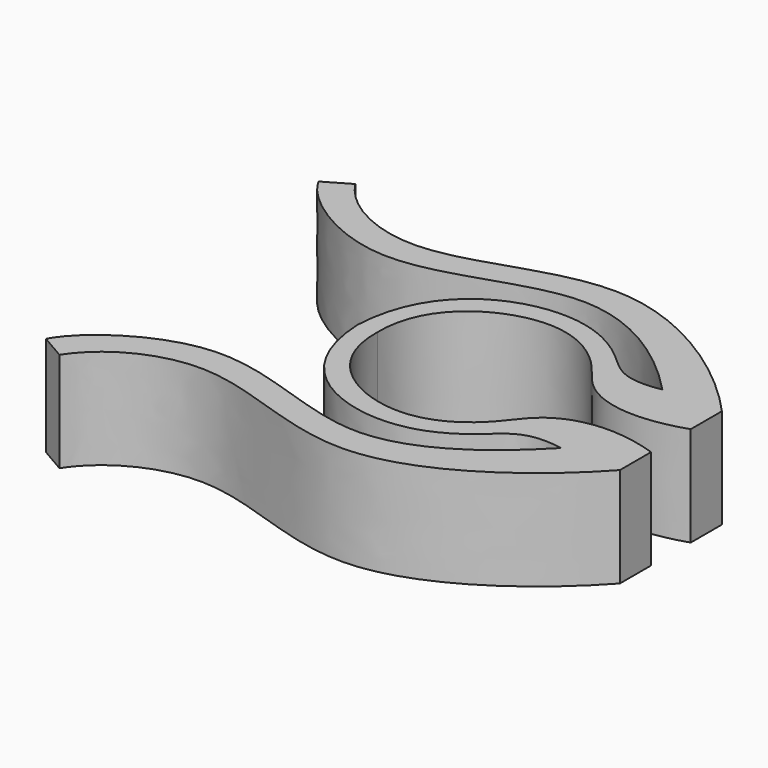
from build123d import *

# Parameters (mm, degrees)
F1_DEPTH = 6.35


with BuildPart() as f1:
    # F0 (on Top) → F1 (new body)
    with BuildSketch(Plane.XY):
        with BuildLine():
            Line((-7.239, 0), (-5.969, 0))
            add(Edge.make_bspline(
                [(-5.969, 0), (-6.0701264503, 3.9867206148), (-0.0083761915, 7.3584527752), (4.614136051, 4.2335375173), (6.0702898283, 1.464032411), (9.5657648794, 0.540955909), (12.7, 1.5748)],
                knots=[0, 0, 0, 0, 0.3123970734, 0.5484634034, 0.7270196615, 1, 1, 1, 1], degree=3))
            Line((12.7, 1.5748), (12.7, 4.0559605695))
            add(Edge.make_bspline(
                [(12.7, 4.0559605695), (9.9085047841, 7.1547813714), (1.0123703559, 13.7321167881), (-9.7640778606, 6.6237279483), (-15.5811811273, 9.8434320102), (-16.7785789818, 11.7678204551)],
                knots=[0, 0, 0, 0, 0.3773724979, 0.7229100201, 1, 1, 1, 1], degree=3))
            Line((-16.7785789818, 11.7678204551), (-18.3722581714, 10.8381742612))
            add(Edge.make_bspline(
                [(8.9377881959, 4.0287543088), (6.5324549964, 6.5471798375), (0.0463203213, 11.4481459639), (-10.6170131969, 4.2283415052), (-17.5346564086, 9.162971663), (-18.3722581714, 10.8381742612)],
                knots=[0, 0, 0, 0, 0.3379245524, 0.6941107255, 1, 1, 1, 1], degree=3))
            add(Edge.make_bspline(
                [(-7.239, 0), (-6.9881934982, 5.4243064071), (-0.1282277524, 8.5236338355), (5.195152461, 5.4997970316), (6.4907502383, 3.5850983113), (8.9377881959, 4.0287543088)],
                knots=[0, 0, 0, 0, 0.4235929884, 0.725564907, 1, 1, 1, 1], degree=3))
        make_face()
    extrude(amount=F1_DEPTH)

    # F2: F1 across plane


with BuildPart() as f1_1:
    add(f1.part)
    add(f1.part.mirror(Plane.XZ))


solid = f1_1.part
